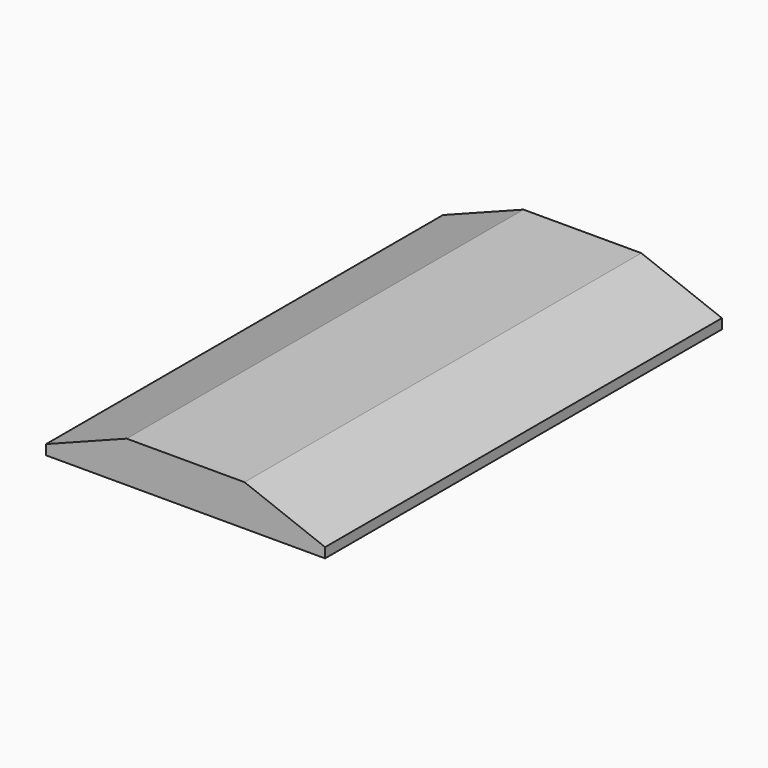
from build123d import *

# Parameters (mm, degrees)
F0_W     = 685.8
F0_H     = 1219.2
F1_DEPTH = 100.584
F2_SIZE2 = 76.2
F2_SIZE  = 198.12
F3_SIZE2 = 198.12
F3_SIZE  = 76.2


with BuildPart() as f1:
    # F0 (on Top) → F1 (new body)
    with BuildSketch(Plane.XY):
        with Locations((-19.1630474292, -94.6527993087)):
            Rectangle(F0_W, F0_H)
    extrude(amount=F1_DEPTH)

    # F2
    f2_edges = [f1.edges().sort_by_distance(p)[0] for p in [
        (-362.063047, -94.652799, 100.584),
    ]]
    f2_side = f1.faces().sort_by_distance((-19.163047, -94.652799, 100.584))[0]
    chamfer(f2_edges, length=F2_SIZE, length2=F2_SIZE2, reference=f2_side)

    # F3
    f3_edges = [f1.edges().sort_by_distance(p)[0] for p in [
        (323.736953, -94.652799, 100.584),
    ]]
    f3_side = f1.faces().sort_by_distance((323.736953, -94.652799, 50.292))[0]
    chamfer(f3_edges, length=F3_SIZE, length2=F3_SIZE2, reference=f3_side)


solid = f1.part
